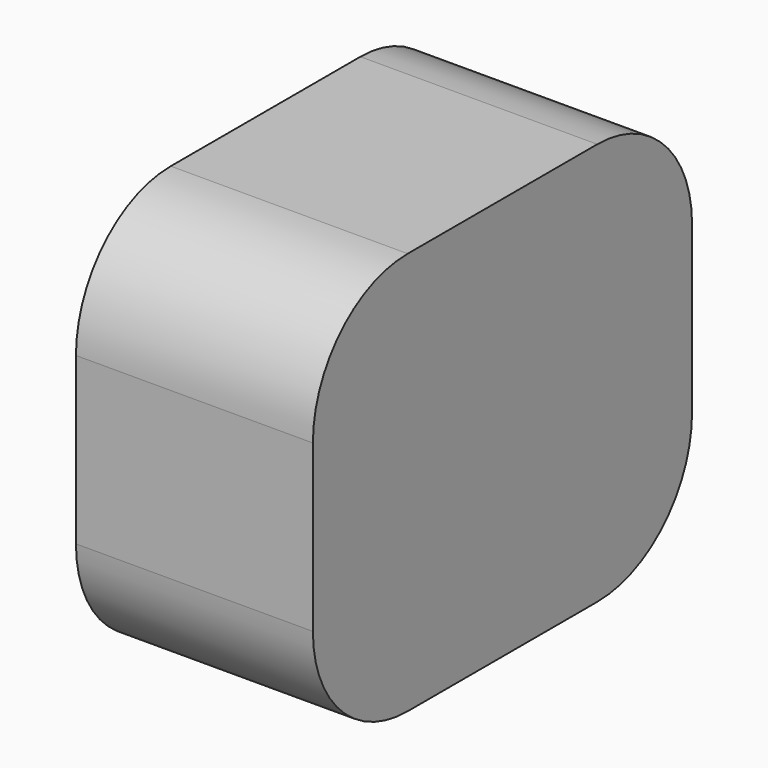
from build123d import *

# Parameters (mm, degrees)
F0_W     = 101.614196
F0_H     = 86.362857
F1_DEPTH = 50.8
F2_R     = 25.4
F3_R     = 25.4


with BuildPart() as f1:
    # F0 (on Right) → F1 (new body)
    with BuildSketch(Plane.YZ):
        with Locations((-1.026405, 0.513206)):
            Rectangle(F0_W, F0_H)
    extrude(amount=F1_DEPTH)

    # F2
    f2_edges = [f1.edges().sort_by_distance(p)[0] for p in [
        (25.4, -51.833503, 43.694634),
    ]]
    fillet(f2_edges, radius=F2_R)

    # F3
    f3_edges = [f1.edges().sort_by_distance(p)[0] for p in [
        (25.4, 49.780693, 43.694634),
        (25.4, -51.833503, -42.668223),
        (25.4, 49.780693, -42.668223),
    ]]
    fillet(f3_edges, radius=F3_R)


solid = f1.part
